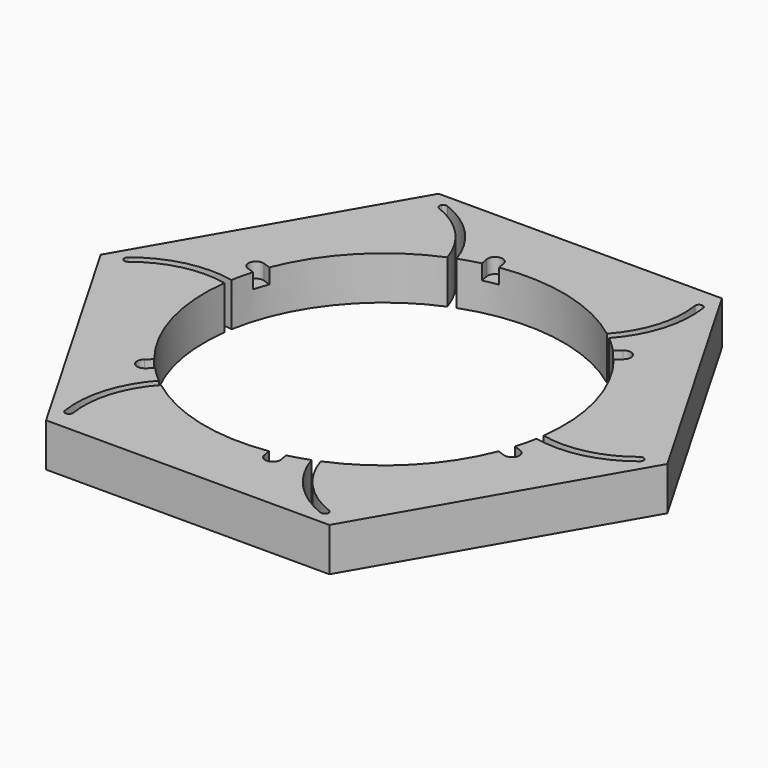
from build123d import *

# Parameters (mm, degrees)
F2_START      = 2
F0_R          = 95
F2_DEPTH      = 23
F4_DEPTH      = 35
F4_DEPTH_BACK = 10
F5_COUNT      = 6
F8_DEPTH      = 8
F8_DEPTH_BACK = 10
F9_COUNT      = 6


with BuildPart() as f2:
    # F0 (on Top) → F2 (new body)
    with BuildSketch(Plane.XY.offset(F2_START)):
        Polygon((75, 129.9038105677), (-75, 129.9038105677), (-150, 0), (-75, -129.9038105677), (75, -129.9038105677), (150, 0), align=None)
        Circle(F0_R, mode=Mode.SUBTRACT)
    extrude(amount=F2_DEPTH)


with BuildPart() as f4:
    # F3 (on Top) → F4 (new body, two sides)
    with BuildSketch(Plane.XY) as f4_sk:
        with BuildLine():
            ThreePointArc((-34.5435296861, 77.6643068393), (-32.6327882373, 78.4863117484), (-30.7025049427, 79.2613158498))
            ThreePointArc((-30.7025049427, 79.2613158498), (-41.9019572207, 106.1559598637), (-65.2675230757, 123.5571075336))
            ThreePointArc((-65.2675230757, 123.5571075336), (-66.656996648, 123.5810891624), (-67.7266746593, 122.6939584625))
            ThreePointArc((-67.7266746593, 122.6939584625), (-67.8817545517, 121.0315856662), (-66.7217246277, 119.8308093913))
            ThreePointArc((-66.7217246277, 119.8308093913), (-44.7195832857, 103.2599332678), (-34.5435296861, 77.6643068393))
        make_face()
    extrude(amount=F4_DEPTH)
    extrude(f4_sk.sketch, amount=-F4_DEPTH_BACK)


with BuildPart() as f5_1:
    # F5: instance of F4
    add(f4.part.rotate(Axis((0, 0, -0.1854561269), (0, 0, 1)), 1 * 360 / F5_COUNT))


with BuildPart() as f5_2:
    # F5: instance of F4
    add(f4.part.rotate(Axis((0, 0, -0.1854561269), (0, 0, 1)), 2 * 360 / F5_COUNT))


with BuildPart() as f5_3:
    # F5: instance of F4
    add(f4.part.rotate(Axis((0, 0, -0.1854561269), (0, 0, 1)), 3 * 360 / F5_COUNT))


with BuildPart() as f5_4:
    # F5: instance of F4
    add(f4.part.rotate(Axis((0, 0, -0.1854561269), (0, 0, 1)), 4 * 360 / F5_COUNT))


with BuildPart() as f5_5:
    # F5: instance of F4
    add(f4.part.rotate(Axis((0, 0, -0.1854561269), (0, 0, 1)), 5 * 360 / F5_COUNT))


with BuildPart() as f2_1:
    add(f2.part)

    # F6: cut F4, F5_5, F5_4, F5_3, F5_2, F5_1
    add(f4.part, mode=Mode.SUBTRACT)
    add(f5_5.part, mode=Mode.SUBTRACT)
    add(f5_4.part, mode=Mode.SUBTRACT)
    add(f5_3.part, mode=Mode.SUBTRACT)
    add(f5_2.part, mode=Mode.SUBTRACT)
    add(f5_1.part, mode=Mode.SUBTRACT)

    # F9: F8 ×6 about axis
    f9_axis = Axis((0, 0, -0.1854561269), (0, 0, 1))


with BuildPart() as f8:
    # F7 (on face) → F8 (new body, two sides)
    with BuildSketch(Plane.XY.offset(25)) as f8_sk:
        with BuildLine():
            ThreePointArc((-14.9635818085, 97.9443271428), (-16.6533189284, 100.4972414515), (-19.6533265238, 101.1075998951))
            ThreePointArc((-19.6533265238, 101.1075998951), (-22.2062408325, 99.4178627752), (-22.8165992761, 96.4178551798))
            Line((-22.8165992761, 96.4178551798), (-20.6971664161, 85.5143183486))
            Line((-20.6971664161, 85.5143183486), (-16.7706576823, 86.2775543301))
            Line((-16.7706576823, 86.2775543301), (-12.8441489485, 87.0407903117))
            Line((-12.8441489485, 87.0407903117), (-14.9635818085, 97.9443271428))
        make_face()
    extrude(amount=-F8_DEPTH)
    extrude(f8_sk.sketch, amount=F8_DEPTH_BACK)


with BuildPart() as f2_2:
    add(f2_1.part)
    for i in range(1, F9_COUNT):
        add(f8.part.rotate(f9_axis, i * 360 / F9_COUNT), mode=Mode.SUBTRACT)

    # F9#seed: cut F8
    add(f8.part, mode=Mode.SUBTRACT)


solid = f2_2.part
